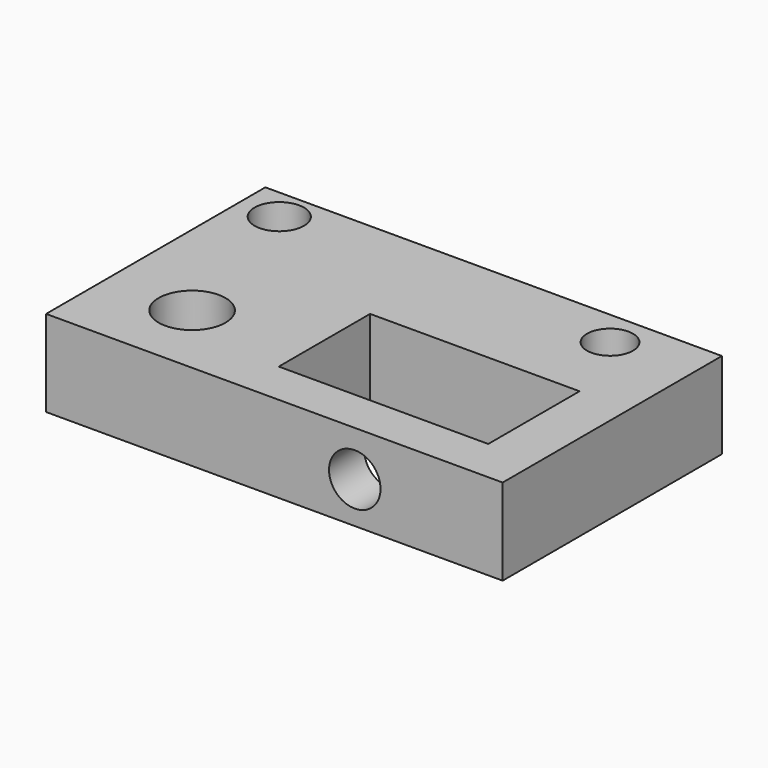
from build123d import *

# Parameters (mm, degrees)
F0_W     = 132.096782
F0_H     = 79.294358
F1_DEPTH = 25
F2_R     = 7.148366
F2_R_2   = 9.678364
F3_DEPTH = 25
F2_R_3   = 6.654601
F2_W     = 60.604844
F2_H     = 33.024194
F4_DEPTH = 25
F5_R     = 7.447322
F6_DEPTH = 25
F7_R     = 6.960859
F8_DEPTH = 25


with BuildPart() as f1:
    # F0 (on Top) → F1 (new body)
    with BuildSketch(Plane.XY):
        with Locations((-0.997983, -2.540322)):
            Rectangle(F0_W, F0_H)
    extrude(amount=F1_DEPTH)

    # F2 (on face) → F3 (cut)
    with BuildSketch(Plane.XY.offset(25)):
        with Locations((-55.614922, 27.852824)):
            Circle(F2_R)
        with Locations((-42.368952, -20.231856)):
            Circle(F2_R_2)
    extrude(amount=-F3_DEPTH, mode=Mode.SUBTRACT)

    # F2 (on face) → F4 (cut)
    with BuildSketch(Plane.XY.offset(25)):
        with Locations((-55.614922, 27.852824)):
            Circle(F2_R)
        with Locations((-42.368952, -20.231856)):
            Circle(F2_R_2)
        with Locations((41.098792, 26.582664)):
            Circle(F2_R_3)
        with Locations((20.413308, -12.97379)):
            Rectangle(F2_W, F2_H)
    extrude(amount=-F4_DEPTH, mode=Mode.SUBTRACT)

    # F5 (on face) → F6 (cut)
    with BuildSketch(Plane.XZ.offset(42.187501)):
        with Locations((22.263901, 11.891413)):
            Circle(F5_R)
    extrude(amount=-F6_DEPTH, mode=Mode.SUBTRACT)

    # F7 (on face) → F8 (cut)
    with BuildSketch(Plane(origin=(0, 37.106857, 0), x_dir=(-1, 0, 0), z_dir=(0, 1, 0))):
        with Locations((-8.310321, 15.035793)):
            Circle(F7_R)
    extrude(amount=-F8_DEPTH, mode=Mode.SUBTRACT)


solid = f1.part
